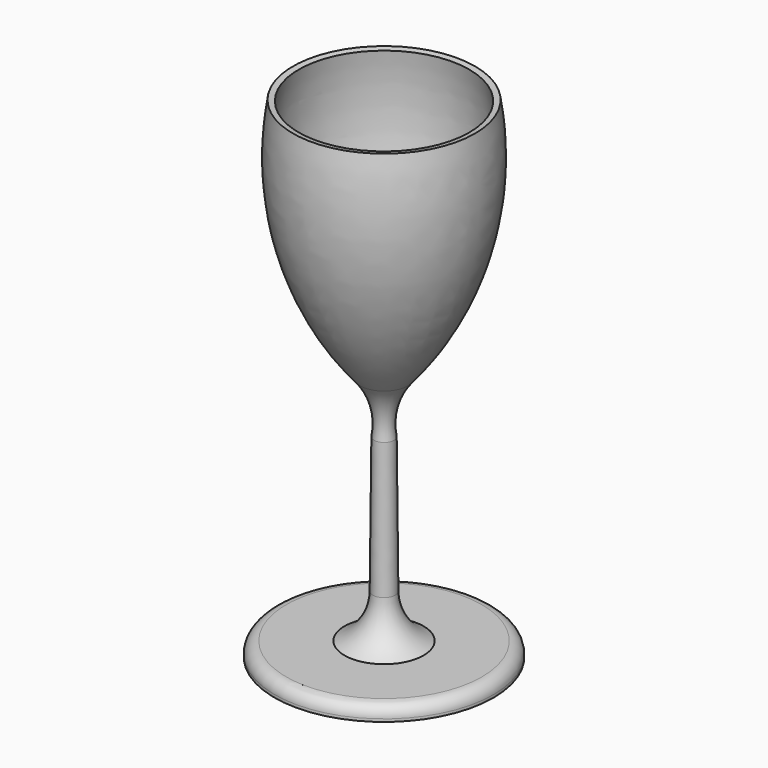
from build123d import *

# Parameters (mm, degrees)
F3_R = 3


with BuildPart() as f2:
    # F0 (on Front) → F2 (revolve)
    with BuildSketch(Plane.XZ):
        with BuildLine():
            ThreePointArc((2.540189, -25.569025), (2.830894, -18.423916), (6.156331, -12.093151))
            ThreePointArc((6.156331, -12.093151), (21.682175, 17.25035), (23.329504, 50.407239))
            Line((23.329504, 50.407239), (21.850841, 50.15514))
            ThreePointArc((21.850841, 50.15514), (20.235781, 17.647775), (5.014079, -11.120906))
            ThreePointArc((5.014079, -11.120906), (2.62263, -12.203154), (0, -12.093151))
            Line((0, -12.093151), (0, -75.33066))
            Line((0, -75.33066), (28.07332, -75.33066))
            Line((28.07332, -75.33066), (28.07332, -71.624145))
            Line((28.07332, -71.624145), (10.141856, -71.624145))
            ThreePointArc((10.141856, -71.624145), (4.882403, -67.064973), (2.878637, -60.399178))
            Line((2.878637, -60.399178), (2.540189, -25.569025))
        make_face()
    revolve(axis=Axis((0, 0, 7.113926), (0, 0, -1)))

    # F3
    f3_edges = [f2.edges().sort_by_distance(p)[0] for p in [
        (-28.07332, 0, -71.624145),
    ]]
    fillet(f3_edges, radius=F3_R)


solid = f2.part
